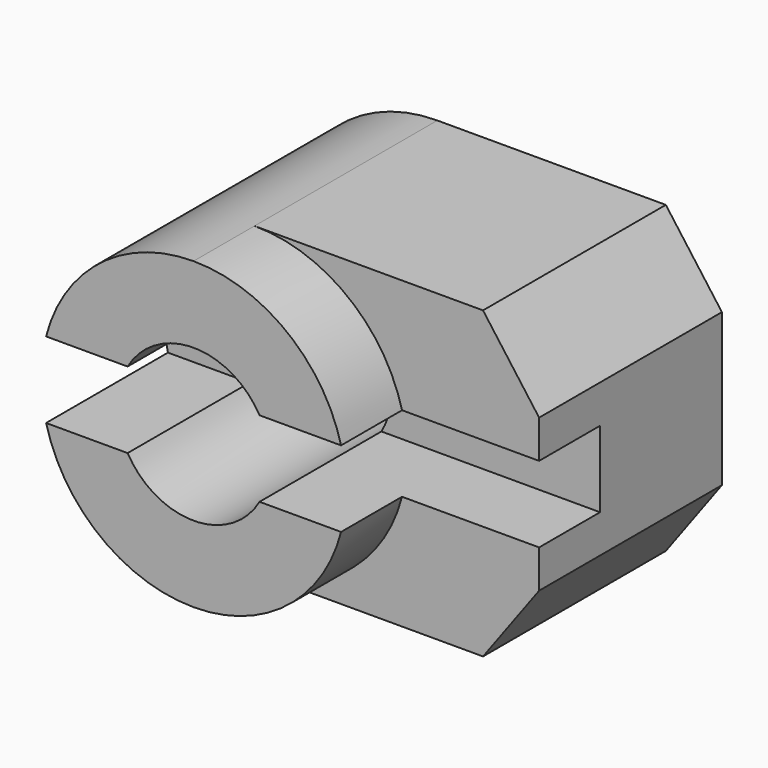
from build123d import *

# Parameters (mm, degrees)
F1_DEPTH = 20
F2_DEPTH = 15
F3_R     = 5
F4_DEPTH = 20.001
F6_DEPTH = 10
F7_DEPTH = 10


with BuildPart() as f1:
    # F0 (on Front) → F1 (new body)
    with BuildSketch(Plane.XZ):
        with BuildLine():
            ThreePointArc((0, -10), (7.0710678119, -7.0710678119), (10, 0))
            ThreePointArc((10, 0), (7.0710678119, 7.0710678119), (0, 10))
            ThreePointArc((0, 10), (-10, 0), (0, -10))
        make_face()
    extrude(amount=F1_DEPTH)

    # F0 (on Front) → F2 (join)
    with BuildSketch(Plane.XZ):
        with BuildLine():
            ThreePointArc((0, 10), (7.0710678119, 7.0710678119), (10, 0))
            ThreePointArc((10, 0), (7.0710678119, -7.0710678119), (0, -10))
            Line((0, -10), (15, -10))
            Line((15, -10), (18.6824316361, -5))
            Line((18.6824316361, -5), (18.6824316361, 5))
            Line((18.6824316361, 5), (15, 10))
            Line((15, 10), (0, 10))
        make_face()
    extrude(amount=F2_DEPTH)

    # F3 (on face) → F4 (cut, through all)
    with BuildSketch(Plane.XZ.offset(20)):
        Circle(F3_R)
    extrude(amount=-F4_DEPTH, mode=Mode.SUBTRACT)

    # F5 (on face) → F6 (cut)
    with BuildSketch(Plane.XZ.offset(20)):
        with BuildLine():
            ThreePointArc((10, 0), (9.9202969627, 1.2600429248), (9.6824583655, 2.5))
            Line((9.6824583655, 2.5), (4.3301270189, 2.5))
            ThreePointArc((4.3301270189, 2.5), (4.8296291314, 1.2940952255), (5, 0))
            ThreePointArc((5, 0), (4.8296291314, -1.2940952255), (4.3301270189, -2.5))
            Line((4.3301270189, -2.5), (9.6824583655, -2.5))
            ThreePointArc((9.6824583655, -2.5), (9.9202969627, -1.2600429248), (10, 0))
        make_face()
        with BuildLine():
            Line((-4.3301270189, 2.5), (-9.6824583655, 2.5))
            ThreePointArc((-9.6824583655, 2.5), (-10, 0), (-9.6824583655, -2.5))
            Line((-9.6824583655, -2.5), (-4.3301270189, -2.5))
            ThreePointArc((-4.3301270189, -2.5), (-5, 0), (-4.3301270189, 2.5))
        make_face()
    extrude(amount=-F6_DEPTH, mode=Mode.SUBTRACT)

    # F5 (on face) → F7 (cut)
    with BuildSketch(Plane.XZ.offset(20)):
        with BuildLine():
            Line((18.6824316361, -2.5), (18.6824316361, 2.5))
            Line((18.6824316361, 2.5), (9.6824583655, 2.5))
            ThreePointArc((9.6824583655, 2.5), (9.9202969627, 1.2600429248), (10, 0))
            ThreePointArc((10, 0), (9.9202969627, -1.2600429248), (9.6824583655, -2.5))
            Line((9.6824583655, -2.5), (18.6824316361, -2.5))
        make_face()
    extrude(amount=-F7_DEPTH, mode=Mode.SUBTRACT)


solid = f1.part
